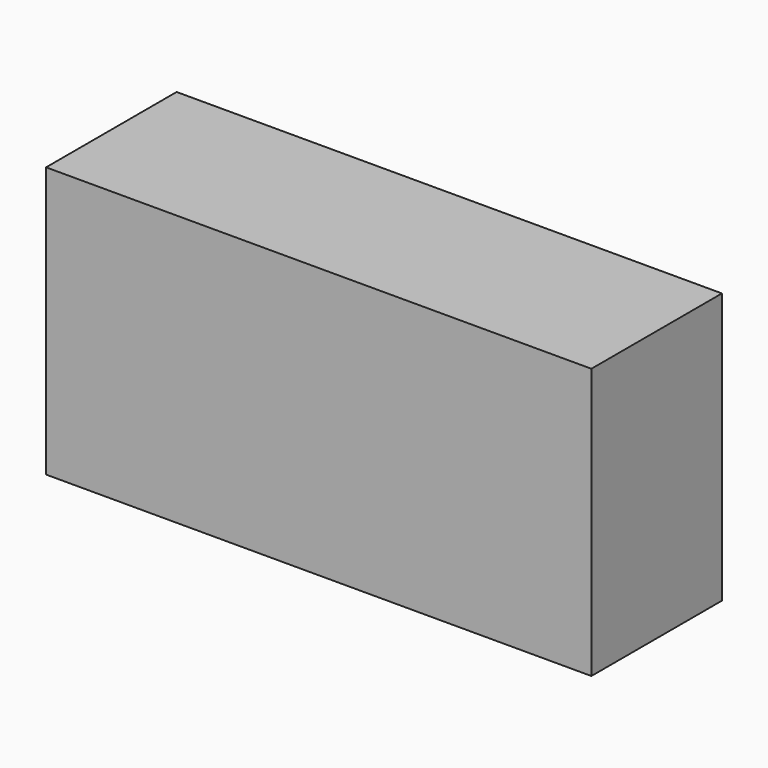
from build123d import *

# Parameters (mm, degrees)
F0_W     = 806.45
F0_H     = 400.05
F1_DEPTH = 241.3
F2_W     = 784.86
F2_H     = 378.46
F3_DEPTH = 219.71


with BuildPart() as f1:
    # F0 (on Front) → F1 (new body)
    with BuildSketch(Plane.XZ):
        Rectangle(F0_W, F0_H)
    extrude(amount=F1_DEPTH)

    # F2 (on face) → F3 (cut)
    with BuildSketch(Plane(origin=(0, 0, 0), x_dir=(-1, 0, 0), z_dir=(0, 1, 0))):
        Rectangle(F2_W, F2_H)
    extrude(amount=-F3_DEPTH, mode=Mode.SUBTRACT)


solid = f1.part
